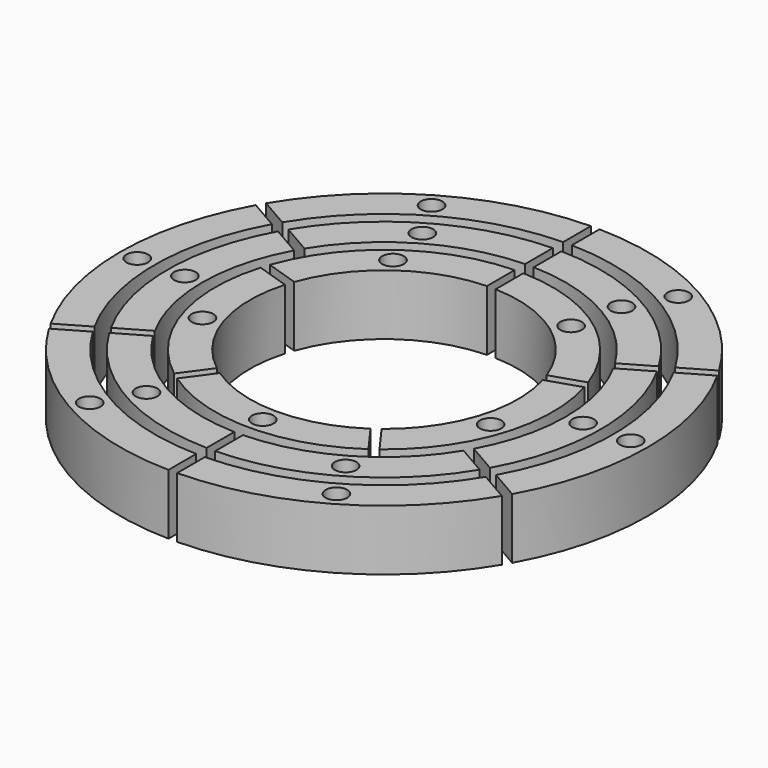
from build123d import *

# Parameters (mm, degrees)
PAD_DEPTH               = 14
SKETCH027_R             = 2.5
POCKET_DEPTH            = 8
PAD006_DEPTH            = 14
SKETCH033_R             = 2.5
POCKET006_DEPTH         = 8
PAD012_DEPTH            = 14
SKETCH039_R             = 2.5
POCKET007_DEPTH         = 8
PAD018_DEPTH            = 14
SKETCH051_R             = 2.5
POCKET013_DEPTH         = 8
BODY018_PLACEMENT_ANGLE = 60
PAD019_DEPTH            = 14
SKETCH053_R             = 2.5
POCKET014_DEPTH         = 8
BODY019_PLACEMENT_ANGLE = 120
PAD020_DEPTH            = 14
SKETCH055_R             = 2.5
POCKET015_DEPTH         = 8
BODY020_PLACEMENT_ANGLE = 180
PAD021_DEPTH            = 14
SKETCH057_R             = 2.5
POCKET016_DEPTH         = 8
BODY021_PLACEMENT_ANGLE = 240
PAD022_DEPTH            = 14
SKETCH059_R             = 2.5
POCKET017_DEPTH         = 8
BODY022_PLACEMENT_ANGLE = 300
PAD023_DEPTH            = 14
SKETCH060_R             = 2.5
POCKET018_DEPTH         = 8
BODY023_PLACEMENT_ANGLE = 60
PAD024_DEPTH            = 14
SKETCH062_R             = 2.5
POCKET019_DEPTH         = 8
BODY024_PLACEMENT_ANGLE = 120
PAD025_DEPTH            = 14
SKETCH064_R             = 2.5
POCKET020_DEPTH         = 8
BODY025_PLACEMENT_ANGLE = 180
PAD026_DEPTH            = 14
SKETCH066_R             = 2.5
POCKET021_DEPTH         = 8
BODY026_PLACEMENT_ANGLE = 240
PAD027_DEPTH            = 14
SKETCH068_R             = 2.5
POCKET022_DEPTH         = 8
BODY027_PLACEMENT_ANGLE = 300
PAD028_DEPTH            = 14
SKETCH071_R             = 2.5
POCKET023_DEPTH         = 8
BODY028_PLACEMENT_ANGLE = 72
PAD029_DEPTH            = 14
SKETCH073_R             = 2.5
POCKET024_DEPTH         = 8
BODY029_PLACEMENT_ANGLE = 144
PAD030_DEPTH            = 14
SKETCH075_R             = 2.5
POCKET025_DEPTH         = 8
BODY030_PLACEMENT_ANGLE = 216
PAD031_DEPTH            = 14
SKETCH077_R             = 2.5
POCKET026_DEPTH         = 8
BODY031_PLACEMENT_ANGLE = 288


with BuildPart() as sec001:
    # Sketch → Pad (new body)
    with BuildSketch(Plane.XY):
        with BuildLine():
            ThreePointArc((52.320451, 31.361927), (30.5, 52.82755), (1, 60.991803))
            Line((1, 60.991803), (1, 52.991803))
            ThreePointArc((45.392247, 27.361927), (26.500619, 45.900418), (1, 52.991803))
            Line((45.392247, 27.361927), (52.320451, 31.361927))
        make_face()
    extrude(amount=PAD_DEPTH)

    # Sketch027 (on Face6 of Pad) → Pocket (cut)
    with BuildSketch(Plane.XY.offset(14)):
        with Locations((28.500309, 49.363984)):
            Circle(SKETCH027_R)
    extrude(amount=-POCKET_DEPTH, mode=Mode.SUBTRACT)


with BuildPart() as min001:
    # Sketch006 → Pad006 (new body)
    with BuildSketch(Plane.XY):
        with BuildLine():
            ThreePointArc((42.792609, 25.861025), (25, 43.30127), (1, 49.989999))
            Line((1, 49.989999), (1, 41.989999))
            ThreePointArc((35.864406, 21.861025), (21.000952, 36.374717), (1, 41.989999))
            Line((35.864406, 21.861025), (42.792609, 25.861025))
        make_face()
    extrude(amount=PAD006_DEPTH)

    # Sketch033 (on Face6 of Pad006) → Pocket006 (cut)
    with BuildSketch(Plane.XY.offset(14)):
        with Locations((23.000476, 39.837993)):
            Circle(SKETCH033_R)
    extrude(amount=-POCKET006_DEPTH, mode=Mode.SUBTRACT)


with BuildPart() as hour001:
    # Sketch018 → Pad012 (new body)
    with BuildSketch(Plane.XY):
        with BuildLine():
            ThreePointArc((36.769992, 12.998757), (22.923625, 31.551663), (1, 38.987177))
            Line((1, 38.987177), (1, 30.987177))
            ThreePointArc((29.16154, 10.526621), (18.223288, 25.082204), (1, 30.987177))
            Line((29.16154, 10.526621), (36.769992, 12.998757))
        make_face()
    extrude(amount=PAD012_DEPTH)

    # Sketch039 (on Face6 of Pad012) → Pocket007 (cut)
    with BuildSketch(Plane.XY.offset(14)):
        with Locations((20.573456, 28.316933)):
            Circle(SKETCH039_R)
    extrude(amount=-POCKET007_DEPTH, mode=Mode.SUBTRACT)


with BuildPart() as min002:
    # Sketch050 → Pad018 (new body)
    with BuildSketch(Plane.XY):
        with BuildLine():
            ThreePointArc((42.792609, 25.861025), (25, 43.30127), (1, 49.989999))
            Line((1, 49.989999), (1, 41.989999))
            ThreePointArc((35.864406, 21.861025), (21.000952, 36.374717), (1, 41.989999))
            Line((35.864406, 21.861025), (42.792609, 25.861025))
        make_face()
    extrude(amount=PAD018_DEPTH)

    # Sketch051 (on Face6 of Pad018) → Pocket013 (cut)
    with BuildSketch(Plane.XY.offset(14)):
        with Locations((23.000476, 39.837993)):
            Circle(SKETCH051_R)
    extrude(amount=-POCKET013_DEPTH, mode=Mode.SUBTRACT)


with BuildPart() as min002_1:
    # Body018 placement: moved
    add(min002.part.rotate(Axis((0, 0, 0), (0, 0, 1)), BODY018_PLACEMENT_ANGLE))


with BuildPart() as min003:
    # Sketch052 → Pad019 (new body)
    with BuildSketch(Plane.XY):
        with BuildLine():
            ThreePointArc((42.792609, 25.861025), (25, 43.30127), (1, 49.989999))
            Line((1, 49.989999), (1, 41.989999))
            ThreePointArc((35.864406, 21.861025), (21.000952, 36.374717), (1, 41.989999))
            Line((35.864406, 21.861025), (42.792609, 25.861025))
        make_face()
    extrude(amount=PAD019_DEPTH)

    # Sketch053 (on Face6 of Pad019) → Pocket014 (cut)
    with BuildSketch(Plane.XY.offset(14)):
        with Locations((23.000476, 39.837993)):
            Circle(SKETCH053_R)
    extrude(amount=-POCKET014_DEPTH, mode=Mode.SUBTRACT)


with BuildPart() as min003_1:
    # Body019 placement: moved
    add(min003.part.rotate(Axis((0, 0, 0), (0, 0, 1)), BODY019_PLACEMENT_ANGLE))


with BuildPart() as min004:
    # Sketch054 → Pad020 (new body)
    with BuildSketch(Plane.XY):
        with BuildLine():
            ThreePointArc((42.792609, 25.861025), (25, 43.30127), (1, 49.989999))
            Line((1, 49.989999), (1, 41.989999))
            ThreePointArc((35.864406, 21.861025), (21.000952, 36.374717), (1, 41.989999))
            Line((35.864406, 21.861025), (42.792609, 25.861025))
        make_face()
    extrude(amount=PAD020_DEPTH)

    # Sketch055 (on Face6 of Pad020) → Pocket015 (cut)
    with BuildSketch(Plane.XY.offset(14)):
        with Locations((23.000476, 39.837993)):
            Circle(SKETCH055_R)
    extrude(amount=-POCKET015_DEPTH, mode=Mode.SUBTRACT)


with BuildPart() as min004_1:
    # Body020 placement: moved
    add(min004.part.rotate(Axis((0, 0, 0), (0, 0, 1)), BODY020_PLACEMENT_ANGLE))


with BuildPart() as min005:
    # Sketch056 → Pad021 (new body)
    with BuildSketch(Plane.XY):
        with BuildLine():
            ThreePointArc((42.792609, 25.861025), (25, 43.30127), (1, 49.989999))
            Line((1, 49.989999), (1, 41.989999))
            ThreePointArc((35.864406, 21.861025), (21.000952, 36.374717), (1, 41.989999))
            Line((35.864406, 21.861025), (42.792609, 25.861025))
        make_face()
    extrude(amount=PAD021_DEPTH)

    # Sketch057 (on Face6 of Pad021) → Pocket016 (cut)
    with BuildSketch(Plane.XY.offset(14)):
        with Locations((23.000476, 39.837993)):
            Circle(SKETCH057_R)
    extrude(amount=-POCKET016_DEPTH, mode=Mode.SUBTRACT)


with BuildPart() as min005_1:
    # Body021 placement: moved
    add(min005.part.rotate(Axis((0, 0, 0), (0, 0, 1)), BODY021_PLACEMENT_ANGLE))


with BuildPart() as min006:
    # Sketch058 → Pad022 (new body)
    with BuildSketch(Plane.XY):
        with BuildLine():
            ThreePointArc((42.792609, 25.861025), (25, 43.30127), (1, 49.989999))
            Line((1, 49.989999), (1, 41.989999))
            ThreePointArc((35.864406, 21.861025), (21.000952, 36.374717), (1, 41.989999))
            Line((35.864406, 21.861025), (42.792609, 25.861025))
        make_face()
    extrude(amount=PAD022_DEPTH)

    # Sketch059 (on Face6 of Pad022) → Pocket017 (cut)
    with BuildSketch(Plane.XY.offset(14)):
        with Locations((23.000476, 39.837993)):
            Circle(SKETCH059_R)
    extrude(amount=-POCKET017_DEPTH, mode=Mode.SUBTRACT)


with BuildPart() as min006_1:
    # Body022 placement: moved
    add(min006.part.rotate(Axis((0, 0, 0), (0, 0, 1)), BODY022_PLACEMENT_ANGLE))


with BuildPart() as sec002:
    # Sketch061 → Pad023 (new body)
    with BuildSketch(Plane.XY):
        with BuildLine():
            ThreePointArc((52.320451, 31.361927), (30.5, 52.82755), (1, 60.991803))
            Line((1, 60.991803), (1, 52.991803))
            ThreePointArc((45.392247, 27.361927), (26.500619, 45.900418), (1, 52.991803))
            Line((45.392247, 27.361927), (52.320451, 31.361927))
        make_face()
    extrude(amount=PAD023_DEPTH)

    # Sketch060 (on Face6 of Pad023) → Pocket018 (cut)
    with BuildSketch(Plane.XY.offset(14)):
        with Locations((28.500309, 49.363984)):
            Circle(SKETCH060_R)
    extrude(amount=-POCKET018_DEPTH, mode=Mode.SUBTRACT)


with BuildPart() as sec002_1:
    # Body023 placement: moved
    add(sec002.part.rotate(Axis((0, 0, 0), (0, 0, 1)), BODY023_PLACEMENT_ANGLE))


with BuildPart() as sec003:
    # Sketch063 → Pad024 (new body)
    with BuildSketch(Plane.XY):
        with BuildLine():
            ThreePointArc((52.320451, 31.361927), (30.5, 52.82755), (1, 60.991803))
            Line((1, 60.991803), (1, 52.991803))
            ThreePointArc((45.392247, 27.361927), (26.500619, 45.900418), (1, 52.991803))
            Line((45.392247, 27.361927), (52.320451, 31.361927))
        make_face()
    extrude(amount=PAD024_DEPTH)

    # Sketch062 (on Face6 of Pad024) → Pocket019 (cut)
    with BuildSketch(Plane.XY.offset(14)):
        with Locations((28.500309, 49.363984)):
            Circle(SKETCH062_R)
    extrude(amount=-POCKET019_DEPTH, mode=Mode.SUBTRACT)


with BuildPart() as sec003_1:
    # Body024 placement: moved
    add(sec003.part.rotate(Axis((0, 0, 0), (0, 0, 1)), BODY024_PLACEMENT_ANGLE))


with BuildPart() as sec004:
    # Sketch065 → Pad025 (new body)
    with BuildSketch(Plane.XY):
        with BuildLine():
            ThreePointArc((52.320451, 31.361927), (30.5, 52.82755), (1, 60.991803))
            Line((1, 60.991803), (1, 52.991803))
            ThreePointArc((45.392247, 27.361927), (26.500619, 45.900418), (1, 52.991803))
            Line((45.392247, 27.361927), (52.320451, 31.361927))
        make_face()
    extrude(amount=PAD025_DEPTH)

    # Sketch064 (on Face6 of Pad025) → Pocket020 (cut)
    with BuildSketch(Plane.XY.offset(14)):
        with Locations((28.500309, 49.363984)):
            Circle(SKETCH064_R)
    extrude(amount=-POCKET020_DEPTH, mode=Mode.SUBTRACT)


with BuildPart() as sec004_1:
    # Body025 placement: moved
    add(sec004.part.rotate(Axis((0, 0, 0), (0, 0, 1)), BODY025_PLACEMENT_ANGLE))


with BuildPart() as sec005:
    # Sketch067 → Pad026 (new body)
    with BuildSketch(Plane.XY):
        with BuildLine():
            ThreePointArc((52.320451, 31.361927), (30.5, 52.82755), (1, 60.991803))
            Line((1, 60.991803), (1, 52.991803))
            ThreePointArc((45.392247, 27.361927), (26.500619, 45.900418), (1, 52.991803))
            Line((45.392247, 27.361927), (52.320451, 31.361927))
        make_face()
    extrude(amount=PAD026_DEPTH)

    # Sketch066 (on Face6 of Pad026) → Pocket021 (cut)
    with BuildSketch(Plane.XY.offset(14)):
        with Locations((28.500309, 49.363984)):
            Circle(SKETCH066_R)
    extrude(amount=-POCKET021_DEPTH, mode=Mode.SUBTRACT)


with BuildPart() as sec005_1:
    # Body026 placement: moved
    add(sec005.part.rotate(Axis((0, 0, 0), (0, 0, 1)), BODY026_PLACEMENT_ANGLE))


with BuildPart() as sec006:
    # Sketch069 → Pad027 (new body)
    with BuildSketch(Plane.XY):
        with BuildLine():
            ThreePointArc((52.320451, 31.361927), (30.5, 52.82755), (1, 60.991803))
            Line((1, 60.991803), (1, 52.991803))
            ThreePointArc((45.392247, 27.361927), (26.500619, 45.900418), (1, 52.991803))
            Line((45.392247, 27.361927), (52.320451, 31.361927))
        make_face()
    extrude(amount=PAD027_DEPTH)

    # Sketch068 (on Face6 of Pad027) → Pocket022 (cut)
    with BuildSketch(Plane.XY.offset(14)):
        with Locations((28.500309, 49.363984)):
            Circle(SKETCH068_R)
    extrude(amount=-POCKET022_DEPTH, mode=Mode.SUBTRACT)


with BuildPart() as sec006_1:
    # Body027 placement: moved
    add(sec006.part.rotate(Axis((0, 0, 0), (0, 0, 1)), BODY027_PLACEMENT_ANGLE))


with BuildPart() as hour002:
    # Sketch070 → Pad028 (new body)
    with BuildSketch(Plane.XY):
        with BuildLine():
            ThreePointArc((36.769992, 12.998757), (22.923625, 31.551663), (1, 38.987177))
            Line((1, 38.987177), (1, 30.987177))
            ThreePointArc((29.16154, 10.526621), (18.223288, 25.082204), (1, 30.987177))
            Line((29.16154, 10.526621), (36.769992, 12.998757))
        make_face()
    extrude(amount=PAD028_DEPTH)

    # Sketch071 (on Face6 of Pad028) → Pocket023 (cut)
    with BuildSketch(Plane.XY.offset(14)):
        with Locations((20.573456, 28.316933)):
            Circle(SKETCH071_R)
    extrude(amount=-POCKET023_DEPTH, mode=Mode.SUBTRACT)


with BuildPart() as hour002_1:
    # Body028 placement: moved
    add(hour002.part.rotate(Axis((0, 0, 0), (0, 0, 1)), BODY028_PLACEMENT_ANGLE))


with BuildPart() as hour003:
    # Sketch072 → Pad029 (new body)
    with BuildSketch(Plane.XY):
        with BuildLine():
            ThreePointArc((36.769992, 12.998757), (22.923625, 31.551663), (1, 38.987177))
            Line((1, 38.987177), (1, 30.987177))
            ThreePointArc((29.16154, 10.526621), (18.223288, 25.082204), (1, 30.987177))
            Line((29.16154, 10.526621), (36.769992, 12.998757))
        make_face()
    extrude(amount=PAD029_DEPTH)

    # Sketch073 (on Face6 of Pad029) → Pocket024 (cut)
    with BuildSketch(Plane.XY.offset(14)):
        with Locations((20.573456, 28.316933)):
            Circle(SKETCH073_R)
    extrude(amount=-POCKET024_DEPTH, mode=Mode.SUBTRACT)


with BuildPart() as hour003_1:
    # Body029 placement: moved
    add(hour003.part.rotate(Axis((0, 0, 0), (0, 0, 1)), BODY029_PLACEMENT_ANGLE))


with BuildPart() as hour004:
    # Sketch074 → Pad030 (new body)
    with BuildSketch(Plane.XY):
        with BuildLine():
            ThreePointArc((36.769992, 12.998757), (22.923625, 31.551663), (1, 38.987177))
            Line((1, 38.987177), (1, 30.987177))
            ThreePointArc((29.16154, 10.526621), (18.223288, 25.082204), (1, 30.987177))
            Line((29.16154, 10.526621), (36.769992, 12.998757))
        make_face()
    extrude(amount=PAD030_DEPTH)

    # Sketch075 (on Face6 of Pad030) → Pocket025 (cut)
    with BuildSketch(Plane.XY.offset(14)):
        with Locations((20.573456, 28.316933)):
            Circle(SKETCH075_R)
    extrude(amount=-POCKET025_DEPTH, mode=Mode.SUBTRACT)


with BuildPart() as hour004_1:
    # Body030 placement: moved
    add(hour004.part.rotate(Axis((0, 0, 0), (0, 0, 1)), BODY030_PLACEMENT_ANGLE))


with BuildPart() as hour005:
    # Sketch076 → Pad031 (new body)
    with BuildSketch(Plane.XY):
        with BuildLine():
            ThreePointArc((36.769992, 12.998757), (22.923625, 31.551663), (1, 38.987177))
            Line((1, 38.987177), (1, 30.987177))
            ThreePointArc((29.16154, 10.526621), (18.223288, 25.082204), (1, 30.987177))
            Line((29.16154, 10.526621), (36.769992, 12.998757))
        make_face()
    extrude(amount=PAD031_DEPTH)

    # Sketch077 (on Face6 of Pad031) → Pocket026 (cut)
    with BuildSketch(Plane.XY.offset(14)):
        with Locations((20.573456, 28.316933)):
            Circle(SKETCH077_R)
    extrude(amount=-POCKET026_DEPTH, mode=Mode.SUBTRACT)


with BuildPart() as hour005_1:
    # Body031 placement: moved
    add(hour005.part.rotate(Axis((0, 0, 0), (0, 0, 1)), BODY031_PLACEMENT_ANGLE))


solid = Compound([sec001.part, min001.part, hour001.part, min002_1.part, min003_1.part, min004_1.part, min005_1.part, min006_1.part, sec002_1.part, sec003_1.part, sec004_1.part, sec005_1.part, sec006_1.part, hour002_1.part, hour003_1.part, hour004_1.part, hour005_1.part])
